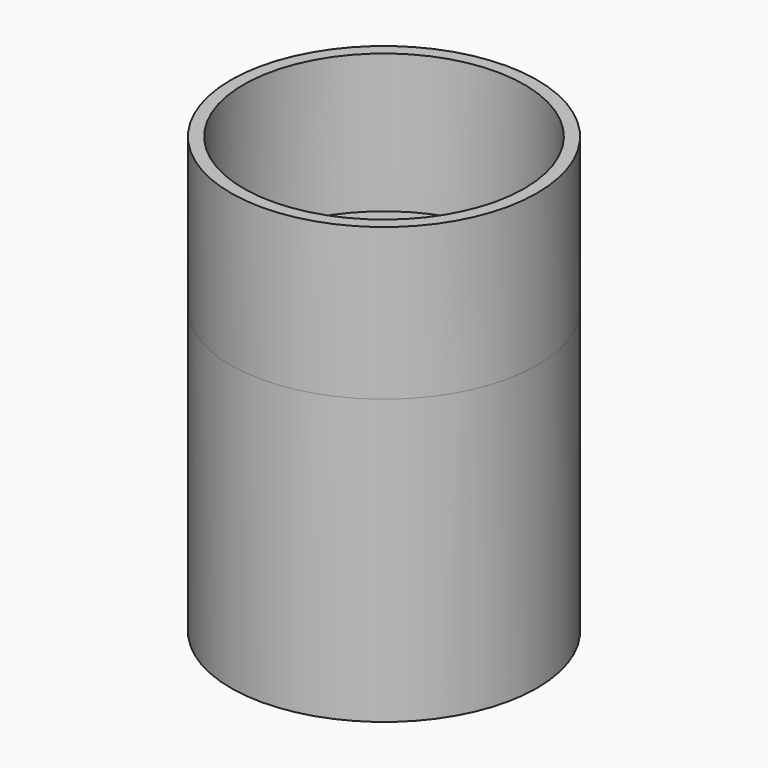
from build123d import *

# Parameters (mm, degrees)
F0_R     = 24.25
F1_DEPTH = 24
F2_T     = -2
F3_R     = 24.25
F4_DEPTH = 45
F5_T     = -2


with BuildPart() as f1:
    # F0 (on Top) → F1 (new body)
    with BuildSketch(Plane.XY):
        Circle(F0_R)
    extrude(amount=F1_DEPTH)

    # F2
    f2_openings = [f1.faces().sort_by_distance(p)[0] for p in [
        (0, 0, 24),
    ]]
    offset(amount=F2_T, openings=f2_openings)


with BuildPart() as f4:
    # F3 (on face) → F4 (new body)
    with BuildSketch(Plane(origin=(0, 0, 0), x_dir=(1, 0, 0), z_dir=(0, 0, -1))):
        Circle(F3_R)
    extrude(amount=F4_DEPTH)

    # F5
    f5_openings = [f4.faces().sort_by_distance(p)[0] for p in [
        (0, 0, -45),
    ]]
    offset(amount=F5_T, openings=f5_openings)


solid = Compound([f1.part, f4.part])
